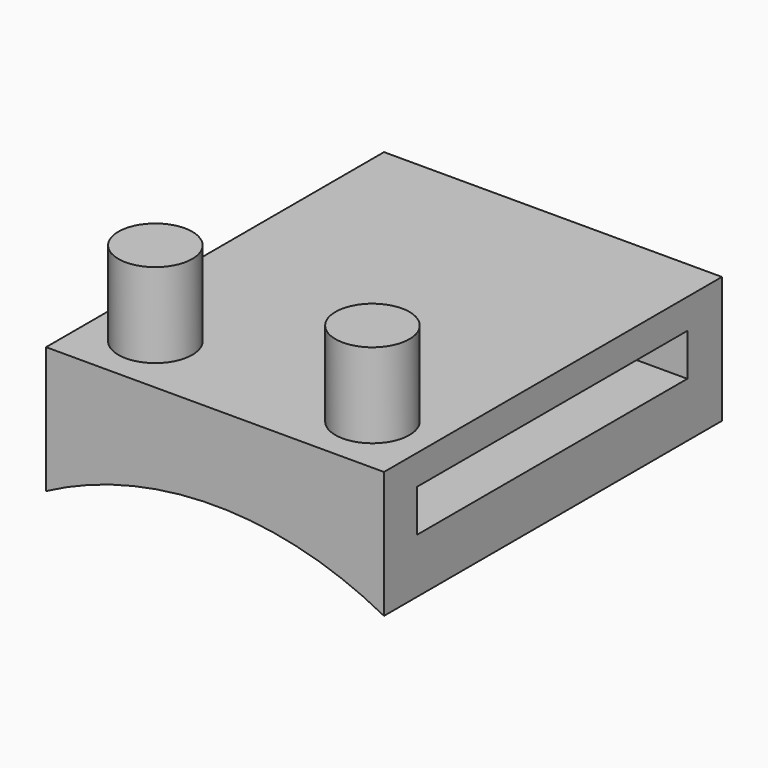
from build123d import *

# Parameters (mm, degrees)
F1_DEPTH = 20
F2_W     = 16
F2_H     = 2
F3_DEPTH = 16
F4_R     = 1.75
F5_DEPTH = 4


with BuildPart() as f1:
    # F0 (on Front) → F1 (new body)
    with BuildSketch(Plane.XZ):
        with BuildLine():
            ThreePointArc((-8, -3.7), (0, -1.7), (8, -3.7))
            Line((8, -3.7), (8, 2.3))
            Line((8, 2.3), (-8, 2.3))
            Line((-8, 2.3), (-8, -3.7))
        make_face()
    extrude(amount=F1_DEPTH)

    # F2 (on face) → F3 (cut, through all)
    with BuildSketch(Plane.YZ.offset(8)):
        with Locations((-10.047581, -0.113725)):
            Rectangle(F2_W, F2_H)
    extrude(amount=-F3_DEPTH, mode=Mode.SUBTRACT)

    # F4 (on face) → F5 (join)
    with BuildSketch(Plane.XY.offset(2.3)):
        with Locations((-5.14, -17.108951)):
            Circle(F4_R)
        with Locations((5.14, -17.108951)):
            Circle(F4_R)
    extrude(amount=F5_DEPTH)


solid = f1.part
